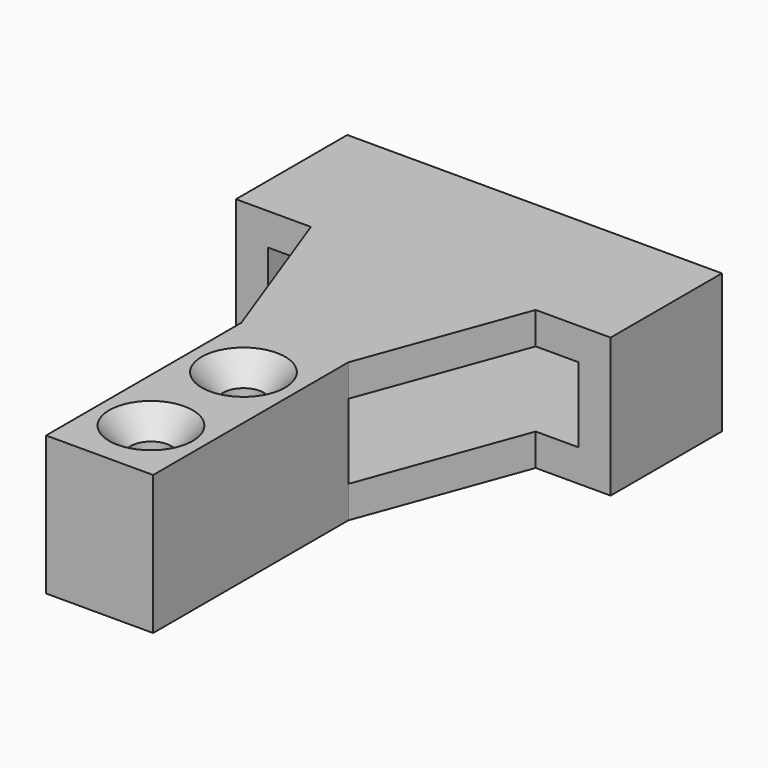
from build123d import *

# Parameters (mm, degrees)
F0_W           = 35
F0_H           = 50.8
F1_DEPTH       = 13
F2_W           = 29
F2_H           = 7
F3_DEPTH       = 28
F4_W           = 15
F4_H           = 7
F5_DEPTH       = 35.001
F7_DEPTH       = 13.001
F9_D           = 3.7973
F9_CSINK_D     = 7.7978
F9_CSINK_ANGLE = 82


with BuildPart() as f1:
    # F0 (on Top) → F1 (new body)
    with BuildSketch(Plane.XY):
        Rectangle(F0_W, F0_H)
    extrude(amount=F1_DEPTH)

    # F2 (on face) → F3 (cut)
    with BuildSketch(Plane(origin=(0, 25.4, 0), x_dir=(-1, 0, 0), z_dir=(0, 1, 0))):
        with Locations((0, 6.5)):
            Rectangle(F2_W, F2_H)
    extrude(amount=-F3_DEPTH, mode=Mode.SUBTRACT)

    # F4 (on face) → F5 (cut, through all)
    with BuildSketch(Plane.YZ.offset(17.5)):
        with Locations((4.9, 6.5)):
            Rectangle(F4_W, F4_H)
    extrude(amount=-F5_DEPTH, mode=Mode.SUBTRACT)

    # F6 (on face) → F7 (cut, through all)
    with BuildSketch(Plane.XY.offset(13)):
        Polygon((-17.5, -25.4), (-5, -25.4), (-5, -2.6), (-10.5, 12.4), (-17.5, 12.4), (-17.5, -2.6), align=None)
        Polygon((17.5, -2.6), (17.5, 12.4), (10.5, 12.4), (5, -2.6), (5, -25.4), (17.5, -25.4), align=None)
    extrude(amount=-F7_DEPTH, mode=Mode.SUBTRACT)

    # F9 (through all)
    with Locations(Plane.XY.offset(13)):
        with Locations((0, -8.6), (0, -19.4)):
            CounterSinkHole(F9_D / 2, F9_CSINK_D / 2, counter_sink_angle=F9_CSINK_ANGLE)


solid = f1.part
